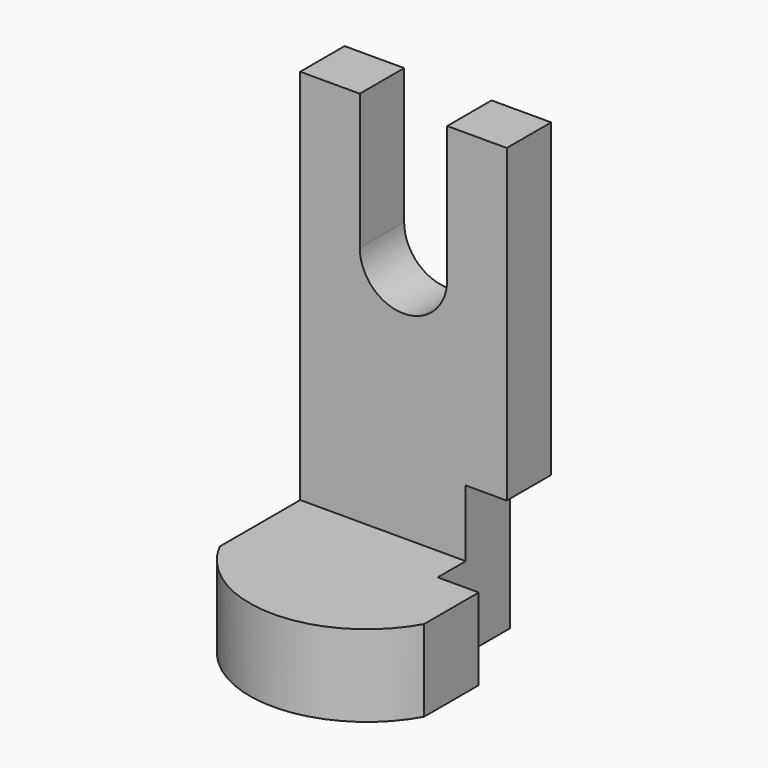
from build123d import *

# Parameters (mm, degrees)
F1_DEPTH = 12.7
F2_W     = 47.2951717675
F2_H     = 18.6941325665
F3_DEPTH = 38.354
F5_DEPTH = 25.4
F6_W     = 20.7277107984
F6_H     = 33.9597482234
F7_DEPTH = 9.398


with BuildPart() as f1:
    # F0 (on Front) → F1 (new body)
    with BuildSketch(Plane.XZ):
        with BuildLine():
            Line((-10.0103262812, 52.5179617107), (-23.6475858837, 52.5179617107))
            Line((-23.6475858837, 52.5179617107), (-23.6475858837, -52.5179617107))
            Line((-23.6475858837, -52.5179617107), (23.6475858837, -52.5179617107))
            Line((23.6475858837, -52.5179617107), (23.6475858837, 52.5179617107))
            Line((23.6475858837, 52.5179617107), (10.0103300065, 52.5179617107))
            Line((10.0103300065, 52.5179617107), (10.0103300065, 21.4714333415))
            ThreePointArc((10.0103300065, 21.4714333415), (1.8626e-06, 11.4611051977), (-10.0103262812, 21.4714333415))
            Line((-10.0103262812, 21.4714333415), (-10.0103262812, 52.5179617107))
        make_face()
    extrude(amount=F1_DEPTH)

    # F2 (on face) → F3 (join)
    with BuildSketch(Plane.XZ.offset(12.7)):
        with Locations((0, -43.1708954275)):
            Rectangle(F2_W, F2_H)
    extrude(amount=F3_DEPTH)

    # F4 (on face) → F5 (cut)
    with BuildSketch(Plane.XY.offset(-33.8238291442)):
        with BuildLine():
            ThreePointArc((23.6475858837, -36.3668836653), (-0.1790720486, -50.2147851715), (-23.6475858837, -35.7682332397))
            Line((-23.6475858837, -35.7682332397), (-23.6475858837, -51.054))
            Line((-23.6475858837, -51.054), (23.6475858837, -51.054))
            Line((23.6475858837, -51.054), (23.6475858837, -36.3668836653))
        make_face()
    extrude(amount=-F5_DEPTH, mode=Mode.SUBTRACT)

    # F6 (on face) → F7 (cut)
    with BuildSketch(Plane.YZ.offset(23.6475858837)):
        with Locations((-10.3638553992, -35.538087599)):
            Rectangle(F6_W, F6_H)
    extrude(amount=-F7_DEPTH, mode=Mode.SUBTRACT)


solid = f1.part
